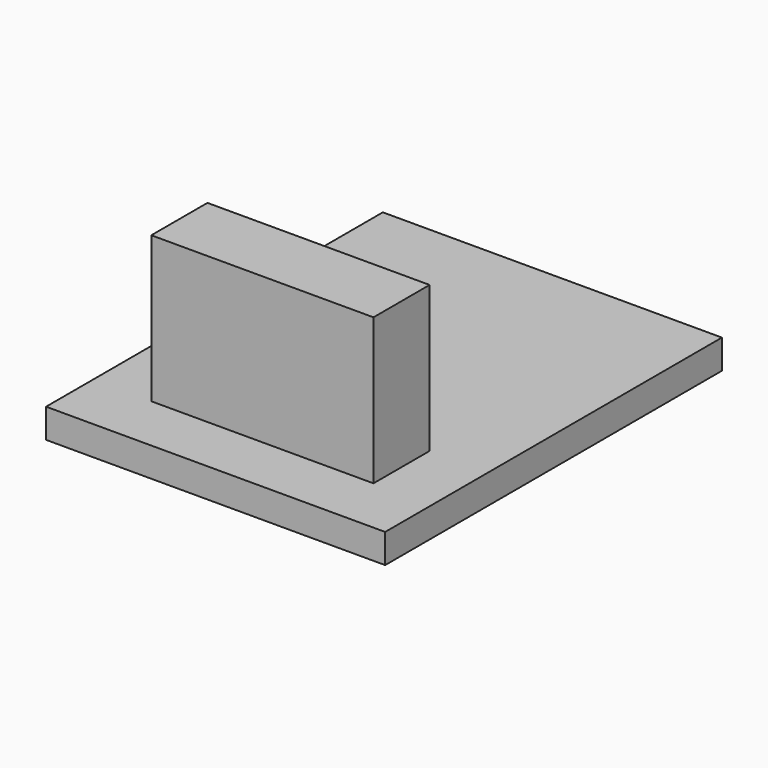
from build123d import *

# Parameters (mm, degrees)
F0_W     = 3.8
F0_H     = 1.2
F1_DEPTH = 2.5
F0_W_2   = 5.8
F0_H_2   = 7.2
F2_DEPTH = 0.5


with BuildPart() as f1:
    # F0 (on Top) → F1 (new body)
    with BuildSketch(Plane.XY):
        with Locations((1.9, -0.6)):
            Rectangle(F0_W, F0_H)
    extrude(amount=F1_DEPTH)

    # F0 (on Top) → F2 (join)
    with BuildSketch(Plane.XY):
        with Locations((1.9, 1.4)):
            Rectangle(F0_W_2, F0_H_2)
        with Locations((1.9, -0.6)):
            Rectangle(F0_W, F0_H, mode=Mode.SUBTRACT)
        with Locations((1.9, -0.6)):
            Rectangle(F0_W, F0_H)
    extrude(amount=-F2_DEPTH)


solid = f1.part
